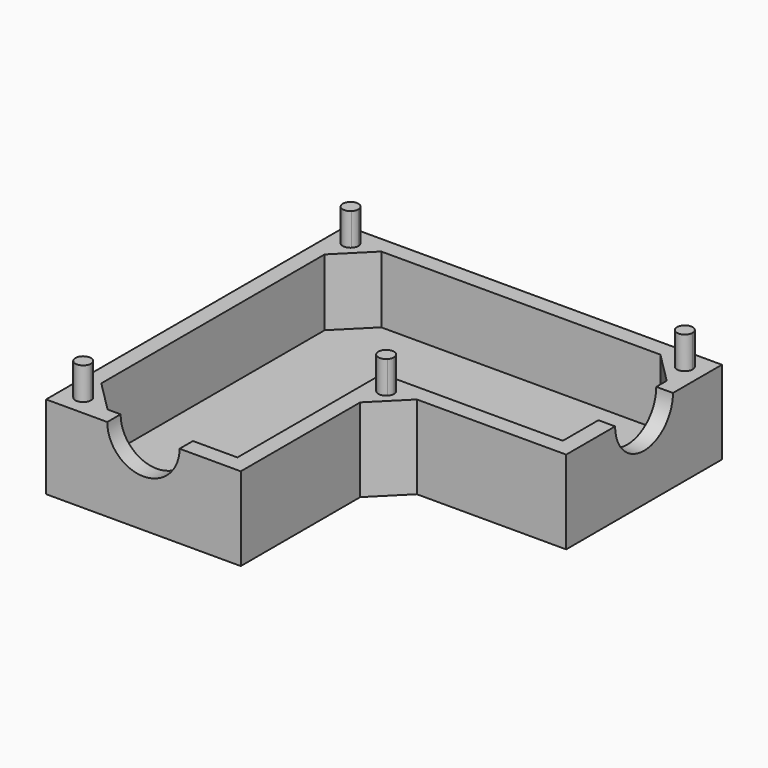
from build123d import *

# Parameters (mm, degrees)
F0_W      = 8.75
F0_H      = 8.75
F1_DEPTH  = 7.5
F2_T      = -1.5
F4_DEPTH  = 7.5
F6_DEPTH  = 2.9
F7_R      = 3.25
F8_DEPTH  = 32.25
F9_R      = 3.25
F10_DEPTH = 32.25


with BuildPart() as f1:
    # F0 (on Top) → F1 (new body)
    with BuildSketch(Plane.XY):
        Polygon((25, 0), (25, 8.75), (8.75, 8.75), (0, 8.75), (0, 0), align=None)
        Polygon((25, -8.75), (25, 0), (0, 0), (0, -25), (8.75, -25), (8.75, -8.75), align=None)
        with Locations((-4.375, 4.375)):
            Rectangle(F0_W, F0_H)
        Polygon((0, -25), (0, 0), (-8.75, 0), (-8.75, -8.75), (-8.75, -25), align=None)
    extrude(amount=F1_DEPTH)

    # F2
    f2_openings = [f1.faces().sort_by_distance(p)[0] for p in [
        (5.484375, -5.484375, 7.5),
    ]]
    offset(amount=F2_T, openings=f2_openings, kind=Kind.INTERSECTION)

    # F3 (on face) → F4 (join, through all)
    with BuildSketch(Plane.XY.offset(7.5)):
        Polygon((-4.4215728753, 7.25), (-7.25, 7.25), (-7.25, 4.4215728753), align=None)
        Polygon((11.5784271247, -8.75), (8.75, -8.75), (8.75, -11.5784271247), align=None)
        Polygon((23.5, 7.25), (20.6715728753, 7.25), (23.5, 4.4215728753), align=None)
        Polygon((-4.4215728753, -23.5), (-7.25, -20.6715728753), (-7.25, -23.5), align=None)
    extrude(amount=-F4_DEPTH)

    # F5 (on face) → F6 (join)
    with BuildSketch(Plane.XY.offset(7.5)):
        with BuildLine():
            ThreePointArc((-6.4014718626, 6.4014718626), (-6.2497309366, 6.6285682068), (-6.1964466094, 6.8964466094))
            ThreePointArc((-6.1964466094, 6.8964466094), (-7.5431622822, 7.1643250121), (-6.4014718626, 6.4014718626))
        make_face()
        with BuildLine():
            ThreePointArc((22.6514718626, 6.4014718626), (23.4143250121, 6.2497309366), (23.8464466094, 6.8964466094))
            ThreePointArc((23.8464466094, 6.8964466094), (22.8785682068, 7.5431622822), (22.6514718626, 6.4014718626))
        make_face()
        with BuildLine():
            ThreePointArc((9.5985281374, -9.5985281374), (9.7502690634, -9.3714317932), (9.8035533906, -9.1035533906))
            ThreePointArc((9.8035533906, -9.1035533906), (8.4568377178, -8.8356749879), (9.5985281374, -9.5985281374))
        make_face()
        with BuildLine():
            ThreePointArc((-6.4014718626, -22.6514718626), (-7.5431622822, -23.4143250121), (-6.1964466094, -23.1464466094))
            ThreePointArc((-6.1964466094, -23.1464466094), (-6.2497309366, -22.8785682068), (-6.4014718626, -22.6514718626))
        make_face()
    extrude(amount=F6_DEPTH)

    # F7 (on face) → F8 (cut, through all)
    with BuildSketch(Plane.XZ.offset(25)):
        with Locations((0, 7.5)):
            Circle(F7_R)
    extrude(amount=-F8_DEPTH, mode=Mode.SUBTRACT)

    # F9 (on face) → F10 (cut, through all)
    with BuildSketch(Plane.YZ.offset(25)):
        with Locations((0, 7.5)):
            Circle(F9_R)
    extrude(amount=-F10_DEPTH, mode=Mode.SUBTRACT)


solid = f1.part
